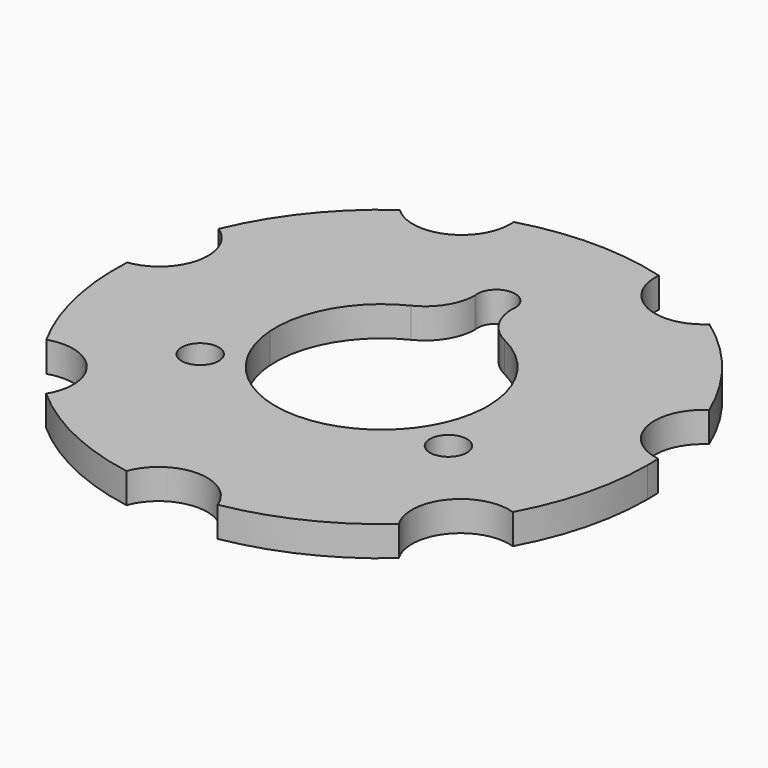
from build123d import *

# Parameters (mm, degrees)
F0_R     = 3.0805460827
F1_DEPTH = 5


with BuildPart() as f1:
    # F0 (on Top) → F1 (new body)
    with BuildSketch(Plane.XY):
        with BuildLine():
            ThreePointArc((38.7372693115, -21.1983433866), (31.1931013311, -7.1196218248), (44.0986901689, 2.2915761904))
            ThreePointArc((44.0986901689, 2.2915761904), (37.273760147, 8.5074925195), (40.7258246034, 17.0690657747))
            ThreePointArc((40.7258246034, 17.0690657747), (25.0149250542, 19.9487370556), (25.7034571856, 35.9065186946))
            ThreePointArc((25.7034571856, 35.9065186946), (16.5883838399, 34.4461339782), (12.0470033135, 42.4831202622))
            ThreePointArc((12.0470033135, 42.4831202622), (0, 31.9952900531), (-12.0470033135, 42.4831202622))
            ThreePointArc((-12.0470033135, 42.4831202622), (-12.0206191757, 42.1068190332), (-12.0118180753, 41.729696668))
            ThreePointArc((-12.0118180753, 41.729696668), (-16.9319780047, 34.2904362337), (-25.7034571856, 35.9065186946))
            ThreePointArc((-25.7034571856, 35.9065186946), (-23.2277433364, 32.0404826351), (-22.3613630755, 27.5321815005))
            ThreePointArc((-22.3613630755, 27.5321815005), (-28.503168199, 16.9641845533), (-40.7258246034, 17.0690657747))
            ThreePointArc((-40.7258246034, 17.0690657747), (-38.0432125415, 14.1499197283), (-37.0710737614, 10.3063839463))
            ThreePointArc((-37.0710737614, 10.3063839463), (-39.0767925501, 4.9766434335), (-44.0986901689, 2.2915761904))
            ThreePointArc((-44.0986901689, 2.2915761904), (-34.8293180265, -0.8629063864), (-30.8881520208, -9.8261218116))
            ThreePointArc((-30.8881520208, -9.8261218116), (-33.040951009, -16.7351026662), (-38.7372693115, -21.1983433866))
            ThreePointArc((-38.7372693115, -21.1983433866), (-31.471625408, -22.3291562996), (-28.1275289546, -28.8778460989))
            ThreePointArc((-28.1275289546, -28.8778460989), (-28.4227133995, -31.0424462167), (-29.2867100058, -33.0489699248))
            ThreePointArc((-29.2867100058, -33.0489699248), (-15.640987417, -28.142300009), (-6.9966203098, -39.7851549832))
            ThreePointArc((-6.9966203098, -39.7851549832), (-7.14303654, -41.6667113538), (-7.5787601318, -43.5029676105))
            ThreePointArc((-7.5787601318, -43.5029676105), (0, -38.2323243404), (7.5787601318, -43.5029676105))
            ThreePointArc((7.5787601318, -43.5029676105), (13.8822360824, -28.8267602574), (29.2867100058, -33.0489699248))
            ThreePointArc((29.2867100058, -33.0489699248), (29.8912348172, -23.8374643276), (38.7372693115, -21.1983433866))
        make_face()
        with Locations((-20.6125697417, -11.9006726891)):
            Circle(F0_R, mode=Mode.SUBTRACT)
        with Locations((20.6125697417, -11.9006726891)):
            Circle(F0_R, mode=Mode.SUBTRACT)
        with BuildLine():
            ThreePointArc((7.7599617955, 15.8301915799), (14.9602642781, 9.3275112035), (17.6298602525, 0))
            ThreePointArc((17.6298602525, 0), (17.619724514, -0.5977295172), (17.5893289527, -1.1947717426))
            ThreePointArc((17.5893289527, -1.1947717426), (15.2679068439, -8.8149301263), (9.8293671572, -14.6354198373))
            ThreePointArc((9.8293671572, -14.6354198373), (0, -17.6298602525), (-9.8293671572, -14.6354198373))
            ThreePointArc((-9.8293671572, -14.6354198373), (-15.2679068439, -8.8149301263), (-17.5893289527, -1.1947717426))
            ThreePointArc((-17.5893289527, -1.1947717426), (-15.2679068439, 8.8149301263), (-7.7599617955, 15.8301915799))
            ThreePointArc((-7.7599617955, 15.8301915799), (-4.3804103986, 18.8544554654), (-3.0730313634, 23.1970698569))
            ThreePointArc((-3.0730313634, 23.1970698569), (-0.303567141, 26.9184783007), (3.1318797336, 23.8013453782))
            ThreePointArc((3.1318797336, 23.8013453782), (3.1171329225, 23.4977782372), (3.0730313634, 23.1970698569))
            ThreePointArc((3.0730313634, 23.1970698569), (4.3804103986, 18.8544554654), (7.7599617955, 15.8301915799))
        make_face(mode=Mode.SUBTRACT)
        with BuildLine():
            ThreePointArc((-22.3613630755, 27.5321815005), (-23.2277433364, 32.0404826351), (-25.7034571856, 35.9065186946))
            ThreePointArc((-25.7034571856, 35.9065186946), (-34.5242636109, 27.5321815005), (-40.7258246034, 17.0690657747))
            ThreePointArc((-40.7258246034, 17.0690657747), (-28.503168199, 16.9641845533), (-22.3613630755, 27.5321815005))
        make_face()
        with BuildLine():
            ThreePointArc((-44.0986901689, 2.2915761904), (-43.0510525562, -9.8261218116), (-38.7372693115, -21.1983433866))
            ThreePointArc((-38.7372693115, -21.1983433866), (-33.040951009, -16.7351026662), (-30.8881520208, -9.8261218116))
            ThreePointArc((-30.8881520208, -9.8261218116), (-34.8293180265, -0.8629063864), (-44.0986901689, 2.2915761904))
        make_face()
        with BuildLine():
            ThreePointArc((-29.2867100058, -33.0489699248), (-19.1595208452, -39.7851549832), (-7.5787601318, -43.5029676105))
            ThreePointArc((-7.5787601318, -43.5029676105), (-7.14303654, -41.6667113538), (-6.9966203098, -39.7851549832))
            ThreePointArc((-6.9966203098, -39.7851549832), (-15.640987417, -28.142300009), (-29.2867100058, -33.0489699248))
        make_face()
        with BuildLine():
            ThreePointArc((7.5787601318, -43.5029676105), (19.1595208452, -39.7851549832), (29.2867100058, -33.0489699248))
            ThreePointArc((29.2867100058, -33.0489699248), (13.8822360824, -28.8267602574), (7.5787601318, -43.5029676105))
        make_face()
        with BuildLine():
            ThreePointArc((38.7372693115, -21.1983433866), (42.781500191, -10.9402485099), (44.1581905885, 0))
            ThreePointArc((44.1581905885, 0), (44.1433129774, 1.1461742599), (44.0986901689, 2.2915761904))
            ThreePointArc((44.0986901689, 2.2915761904), (31.1931013311, -7.1196218248), (38.7372693115, -21.1983433866))
        make_face()
        with BuildLine():
            ThreePointArc((25.7034571856, 35.9065186946), (25.0149250542, 19.9487370556), (40.7258246034, 17.0690657747))
            ThreePointArc((40.7258246034, 17.0690657747), (34.5242636109, 27.5321815005), (25.7034571856, 35.9065186946))
        make_face()
        with BuildLine():
            ThreePointArc((-12.0470033135, 42.4831202622), (0, 31.9952900531), (12.0470033135, 42.4831202622))
            ThreePointArc((12.0470033135, 42.4831202622), (0, 44.1581905885), (-12.0470033135, 42.4831202622))
        make_face()
    extrude(amount=F1_DEPTH)


solid = f1.part
